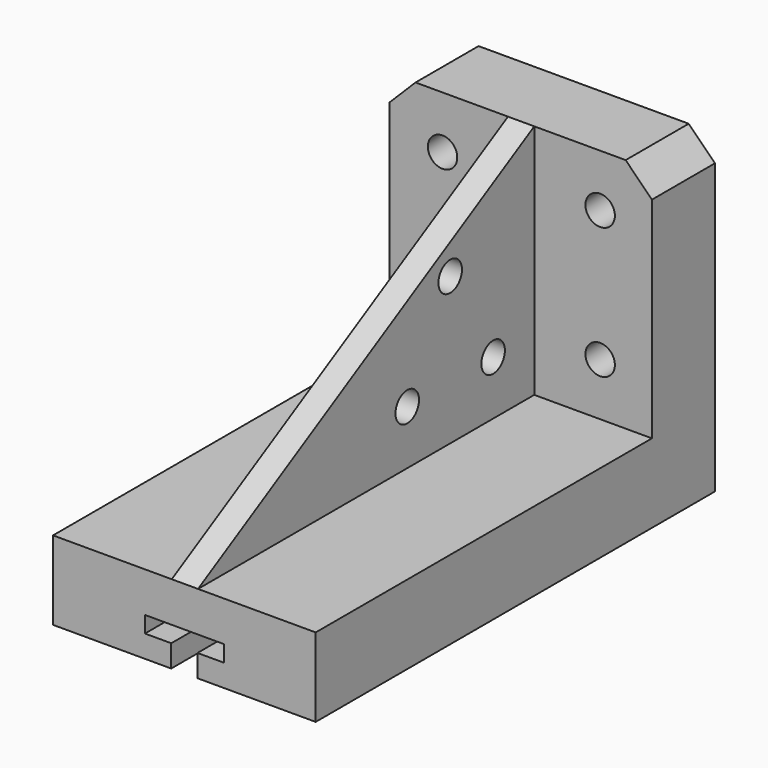
from build123d import *

# Parameters (mm, degrees)
F1_DEPTH       = 19.05
F3_W           = 63.5
F3_H           = 19.05
F4_DEPTH       = 120.65
F5_DEPTH       = 120.65
F7_D           = 7.112
F7_CBORE_D     = 9.652
F7_CBORE_DEPTH = 9.652
F9_START       = 28.702
F9_DEPTH       = 6.35
F11_D          = 7.112
F11_DEPTH      = 12.7
F11_TIP        = 2.1366603613


with BuildPart() as f1:
    # F0 (on Front) → F1 (new body)
    with BuildSketch(Plane.XZ):
        Polygon((6.35, 76.2), (0, 69.85), (0, 0), (63.5, 0), (63.5, 69.85), (57.15, 76.2), align=None)
    extrude(amount=F1_DEPTH)

    # F3 (on Front) → F4 (join)
    with BuildSketch(Plane.XZ):
        with Locations((31.75, 9.525)):
            Rectangle(F3_W, F3_H)
    extrude(amount=F4_DEPTH)

    # F2 (on Front) → F5 (cut)
    with BuildSketch(Plane.XZ):
        Polygon((28.575, 0), (34.925, 0), (34.925, 5.3848), (41.275, 5.3848), (41.275, 9.3472), (22.225, 9.3472), (22.225, 5.3848), (28.575, 5.3848), align=None)
    extrude(amount=F5_DEPTH, mode=Mode.SUBTRACT)

    # F7 (through all)
    with Locations(Plane(origin=(0, 0, 0), x_dir=(-1, 0, 0), z_dir=(0, 1, 0))):
        with Locations((-50.9831043839, 63.5), (-12.8831043839, 63.5), (-12.8831043839, 31.75), (-50.9831043839, 31.75)):
            CounterBoreHole(F7_D / 2, F7_CBORE_D / 2, F7_CBORE_DEPTH)

    # F8 (on Right) → F9 (join)
    with BuildSketch(Plane.YZ.offset(F9_START)):
        Polygon((-19.05, 76.2), (-120.65, 19.05), (-19.05, 19.05), align=None)
    extrude(amount=F9_DEPTH)

    # F11
    with Locations(Plane.YZ.offset(35.052)):
        with Locations((-44.45, 54.61), (-31.4717432989, 32.131), (-57.4282567011, 32.131)):
            Hole(F11_D / 2, depth=F11_DEPTH)
            with Locations((0, 0, -(F11_DEPTH + F11_TIP / 2))):  # 118° drill point
                Cone(0, F11_D / 2, F11_TIP, mode=Mode.SUBTRACT)


solid = f1.part
